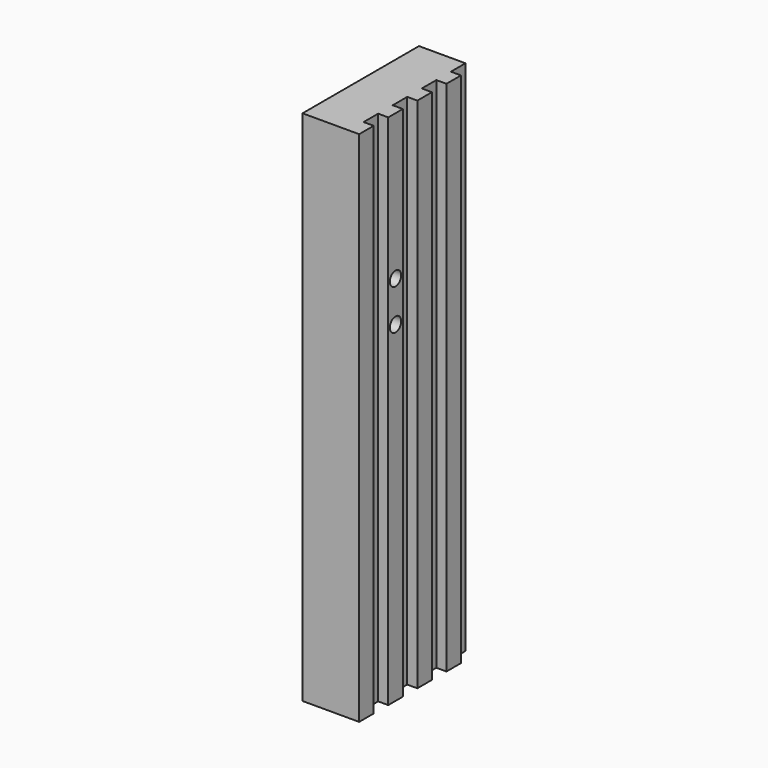
from build123d import *

# Parameters (mm, degrees)
F1_DEPTH = 203.2
F2_R     = 5.55625
F3_DEPTH = 44.451
F4_R     = 9.525
F5_DEPTH = 76.2


with BuildPart() as f1:
    # F0 (on Top) → F1 (new body, symmetric)
    with BuildSketch(Plane.XY):
        Polygon((14.2875, 57.15), (-22.225, 57.15), (-22.225, -57.15), (22.225, -57.15), (22.225, -42.8625), (14.2875, -42.8625), (14.2875, -28.575), (22.225, -28.575), (22.225, -14.2875), (14.2875, -14.2875), (14.2875, 0), (22.225, 0), (22.225, 14.2875), (14.2875, 14.2875), (14.2875, 28.575), (22.225, 28.575), (22.225, 42.8625), (14.2875, 42.8625), align=None)
    extrude(amount=F1_DEPTH, both=True)

    # F2 (on face) → F3 (cut, through all)
    with BuildSketch(Plane.YZ.offset(22.225)):
        with Locations((-21.43125, 88.9)):
            Circle(F2_R)
        with Locations((-21.43125, 57.15)):
            Circle(F2_R)
    extrude(amount=-F3_DEPTH, mode=Mode.SUBTRACT)

    # F4 (on face) → F5 (cut)
    with BuildSketch(Plane(origin=(0, 0, -203.2), x_dir=(1, 0, 0), z_dir=(0, 0, -1))):
        with Locations((-3.175, -38.1)):
            Circle(F4_R)
        with Locations((-3.175, 38.1)):
            Circle(F4_R)
    extrude(amount=-F5_DEPTH, mode=Mode.SUBTRACT)


solid = f1.part
